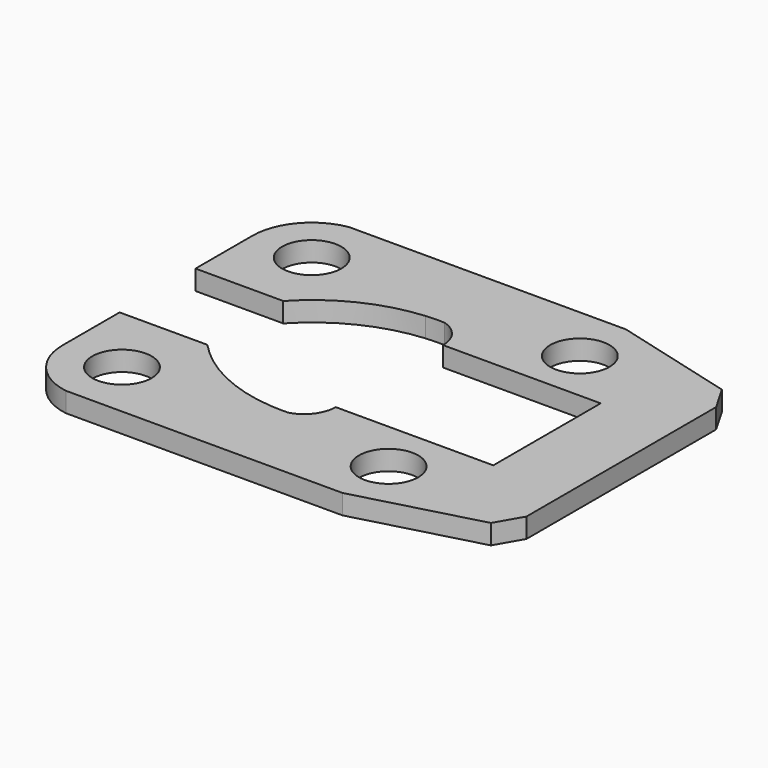
from build123d import *

# Parameters (mm, degrees)
F0_R     = 9.525
F1_DEPTH = 6.35


with BuildPart() as f1:
    # F0 (on Top) → F1 (new body)
    with BuildSketch(Plane.XY):
        with BuildLine():
            Line((104.954476, 56.91301), (16.054476, 56.91301))
            ThreePointArc((16.054476, 56.91301), (4.559189, 50.466038), (0, 38.1))
            Line((0, 38.1), (0, 15.24))
            Line((0, 15.24), (28.189888, 15.24))
            ThreePointArc((28.189888, 15.24), (43.144494, 26.272727), (61.066383, 31.188743))
            ThreePointArc((61.066383, 31.188743), (64.084666, 31.724007), (67.12522, 31.334683))
            ThreePointArc((67.12522, 31.334683), (72.442024, 27.683294), (74.48932, 21.566953))
            Line((74.48932, 21.566953), (125.122593, 21.566953))
            Line((125.122593, 21.566953), (125.122593, -21.566953))
            Line((125.122593, -21.566953), (74.48932, -21.566953))
            ThreePointArc((74.48932, -21.566953), (72.442024, -27.683294), (67.12522, -31.334683))
            ThreePointArc((67.12522, -31.334683), (64.084666, -31.724007), (61.066383, -31.188743))
            ThreePointArc((61.066383, -31.188743), (43.144494, -26.272727), (28.189888, -15.24))
            Line((28.189888, -15.24), (0, -15.24))
            Line((0, -15.24), (0, -38.1))
            ThreePointArc((0, -38.1), (4.559189, -50.466038), (16.054476, -56.91301))
            Line((16.054476, -56.91301), (104.954476, -56.91301))
            Line((104.954476, -56.91301), (144.209702, -46.394604))
            Line((144.209702, -46.394604), (148.998593, -38.1))
            Line((148.998593, -38.1), (148.998593, 0))
            Line((148.998593, 0), (148.998593, 38.1))
            Line((148.998593, 38.1), (144.209702, 46.394604))
            Line((144.209702, 46.394604), (104.954476, 56.91301))
        make_face()
        with Locations((19.05, -38.1)):
            Circle(F0_R, mode=Mode.SUBTRACT)
        with Locations((104.954476, -38.4048)):
            Circle(F0_R, mode=Mode.SUBTRACT)
        with Locations((19.05, 38.1)):
            Circle(F0_R, mode=Mode.SUBTRACT)
        with Locations((104.954476, 38.4048)):
            Circle(F0_R, mode=Mode.SUBTRACT)
        with BuildLine():
            ThreePointArc((67.12522, 31.334683), (64.084666, 31.724007), (61.066383, 31.188743))
            ThreePointArc((61.066383, 31.188743), (64.093623, 31.352148), (67.12522, 31.334683))
        make_face()
        with BuildLine():
            ThreePointArc((61.066383, -31.188743), (64.084666, -31.724007), (67.12522, -31.334683))
            ThreePointArc((67.12522, -31.334683), (64.093623, -31.352148), (61.066383, -31.188743))
        make_face()
    extrude(amount=F1_DEPTH)


solid = f1.part
